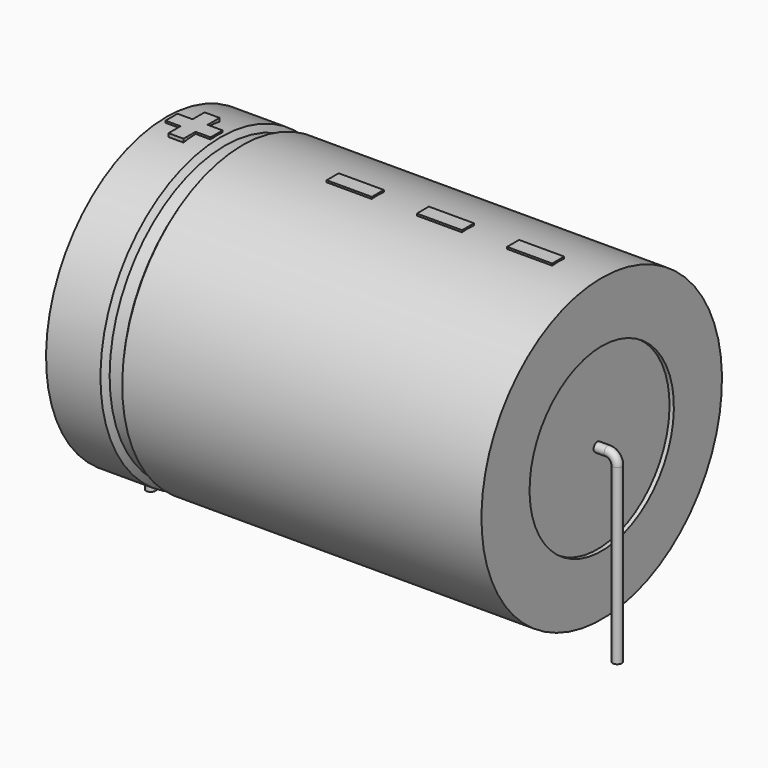
from build123d import *

# Parameters (mm, degrees)
SKETCH_R    = 0.45
SKETCH004_W = 4.35
SKETCH004_H = 1.45
PAD_DEPTH   = 14.645


with BuildPart() as sweep_body:
    # Sweep: sweep along a path in Sketch001
    with BuildLine(Plane.XZ) as sweep_path:
        Line((0, -3), (0, 13.7))
        ThreePointArc((0, 13.7), (0.263608, 14.3364), (0.900012, 14.6))
        Line((0.900012, 14.6), (44.1, 14.6))
        ThreePointArc((44.1, 14.6), (44.736396, 14.336396), (45, 13.7))
        Line((45, 13.7), (45, -3))
    # Sketch → Sweep (sweep)
    with BuildSketch(Plane.XY.offset(-2)):
        Circle(SKETCH_R)
    sweep(path=sweep_path.line)


with BuildPart() as revolution:
    # Sketch002 → Revolution (revolve)
    with BuildSketch(Plane.XZ):
        Polygon((1.5, 29.1), (1.5, 23.3), (43.5, 23.3), (43.5, 29.1), (8.85, 29.1), (8.43, 28.52), (7.17, 28.52), (6.75, 29.1), align=None)
    revolve(axis=Axis((6.97588, 0, 14.6), (1, 0, 0)))


with BuildPart() as revolution001:
    # Sketch003 → Revolution001 (revolve)
    with BuildSketch(Plane.XZ):
        Polygon((1.92, 28.52), (4.02, 28.52), (4.02, 16.05), (40.98, 16.05), (40.98, 28.52), (43.08, 28.52), (43.08, 14.6), (1.92, 14.6), align=None)
    revolve(axis=Axis((6.97588, 0, 14.6), (1, 0, 0)))


with BuildPart() as pad:
    # Sketch004 → Pad (new body)
    with BuildSketch(Plane.XY.offset(14.6)):
        with Locations((37.125, 0)):
            Rectangle(SKETCH004_W, SKETCH004_H)
        with Locations((28.425, 0)):
            Rectangle(SKETCH004_W, SKETCH004_H)
        with Locations((19.725, 0)):
            Rectangle(SKETCH004_W, SKETCH004_H)
        Polygon((3.454, 0.725), (2.004, 0.725), (2.004, -0.725), (3.454, -0.725), (3.454, -2.175), (4.904, -2.175), (4.904, -0.725), (6.354, -0.725), (6.354, 0.725), (4.904, 0.725), (4.904, 2.175), (3.454, 2.175), align=None)
    extrude(amount=PAD_DEPTH)


solid = Compound([sweep_body.part, revolution.part, revolution001.part, pad.part])
